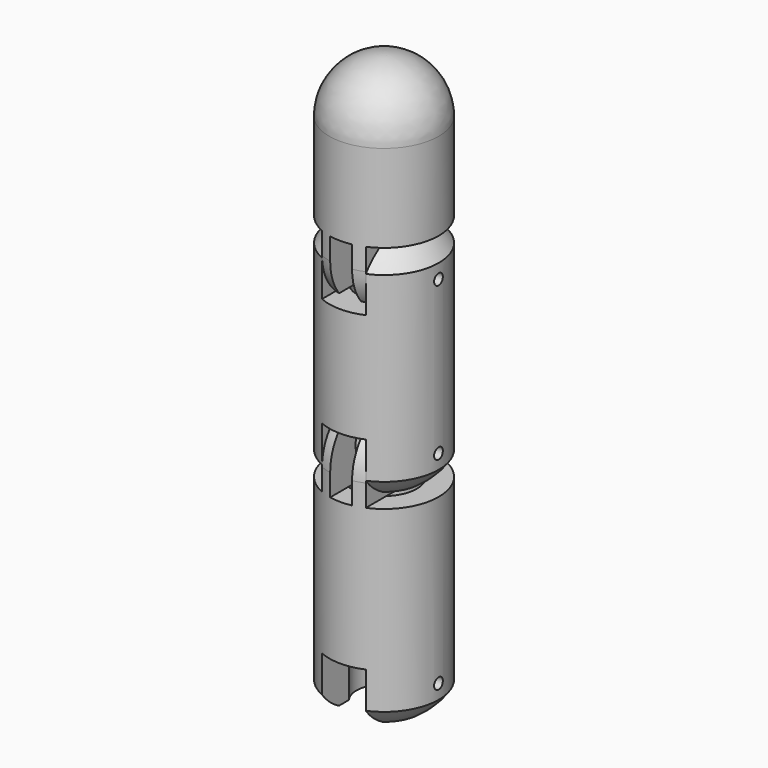
from build123d import *

# Parameters (mm, degrees)
CYLINDER095_R                = 3
CYLINDER095_DEPTH            = 10
CYLINDER090_R                = 5
CYLINDER090_DEPTH            = 4
CYLINDER096_R                = 0.5
CYLINDER096_DEPTH            = 10
CYLINDER094_R                = 2.5
CYLINDER094_DEPTH            = 10
BOX033_W                     = 4
BOX033_H                     = 10
BOX033_DEPTH                 = 5
CYLINDER093_R                = 5
CYLINDER093_DEPTH            = 10
CYLINDER097_R                = 0.5
CYLINDER097_DEPTH            = 10
CYLINDER099_R                = 2
CYLINDER099_DEPTH            = 4
CYLINDER088_R                = 3
CYLINDER088_DEPTH            = 10
BOX034_W                     = 10
BOX034_H                     = 10
BOX034_DEPTH                 = 10
BOX031_W                     = 2
BOX031_H                     = 10
BOX031_DEPTH                 = 10
BOX032_W                     = 10
BOX032_H                     = 10
BOX032_DEPTH                 = 10
CYLINDER101_R                = 5
CYLINDER101_DEPTH            = 10
CYLINDER091_R                = 5
CYLINDER091_DEPTH            = 10
CYLINDER104_R                = 0.5
CYLINDER104_DEPTH            = 10
CYLINDER098_R                = 2
CYLINDER098_DEPTH            = 4
CYLINDER105_R                = 3
CYLINDER105_DEPTH            = 10
BOX036_W                     = 10
BOX036_H                     = 10
BOX036_DEPTH                 = 10
BOX037_W                     = 2
BOX037_H                     = 10
BOX037_DEPTH                 = 10
BOX035_W                     = 10
BOX035_H                     = 10
BOX035_DEPTH                 = 10
CYLINDER103_R                = 5
CYLINDER103_DEPTH            = 10
CYLINDER102_R                = 5
CYLINDER102_DEPTH            = 10
CUT089_PLACEMENT_ANGLE       = 180
CYLINDER109_R                = 3
CYLINDER109_DEPTH            = 10
CYLINDER089_R                = 5
CYLINDER089_DEPTH            = 4
CYLINDER107_R                = 0.5
CYLINDER107_DEPTH            = 10
CYLINDER100_R                = 2.5
CYLINDER100_DEPTH            = 10
BOX038_W                     = 4
BOX038_H                     = 10
BOX038_DEPTH                 = 5
CYLINDER108_R                = 5
CYLINDER108_DEPTH            = 10
FUSION005045_PLACEMENT_ANGLE = 180
CYLINDER111_R                = 3
CYLINDER111_DEPTH            = 10
CYLINDER110_R                = 5
CYLINDER110_DEPTH            = 4
CYLINDER106_R                = 0.5
CYLINDER106_DEPTH            = 10
CYLINDER112_R                = 2.5
CYLINDER112_DEPTH            = 10
BOX039_W                     = 4
BOX039_H                     = 10
BOX039_DEPTH                 = 5
CYLINDER092_R                = 5
CYLINDER092_DEPTH            = 10


with BuildPart() as cylinder095:
    # Cylinder095 → Cylinder095 (new body)
    with BuildSketch(Plane(origin=(18, 0, -6), x_dir=(1, 0, 0), z_dir=(0, 0, 1))):
        Circle(CYLINDER095_R)
    extrude(amount=CYLINDER095_DEPTH)


with BuildPart() as cut084:
    # Cylinder090 → Cylinder090 (new body)
    with BuildSketch(Plane(origin=(18, 0, -4), x_dir=(1, 0, 0), z_dir=(0, 0, 1))):
        Circle(CYLINDER090_R)
    extrude(amount=CYLINDER090_DEPTH)

    # Cut084: cut Cylinder095
    add(cylinder095.part, mode=Mode.SUBTRACT)


with BuildPart() as cut084_1:
    # Cut084 placement: moved
    add(cut084.part.moved(Location((-18, 0, 0))))


with BuildPart() as sphere023:
    # Sphere023 → Sphere023 (revolve)
    with BuildSketch(Plane(origin=(0, 0, -5), x_dir=(1, 0, 0), z_dir=(0, -1, 0))):
        with BuildLine():
            ThreePointArc((0, -6), (6, 0), (0, 6))
            Line((0, 6), (0, -6))
        make_face()
    revolve(axis=Axis((0, 0, -5), (0, 0, 1)))


with BuildPart() as cylinder096:
    # Cylinder096 → Cylinder096 (new body)
    with BuildSketch(Plane(origin=(5, 0, -7), x_dir=(0, 0, 1), z_dir=(-1, 0, 0))):
        Circle(CYLINDER096_R)
    extrude(amount=CYLINDER096_DEPTH)


with BuildPart() as cylinder094:
    # Cylinder094 → Cylinder094 (new body)
    with BuildSketch(Plane.XY.offset(-10)):
        Circle(CYLINDER094_R)
    extrude(amount=CYLINDER094_DEPTH)


with BuildPart() as cube033:
    # Box033 → Box033 (new body)
    with BuildSketch(Plane(origin=(-2, -5, -10), x_dir=(1, 0, 0), z_dir=(0, 0, 1))):
        with Locations((2, 5)):
            Rectangle(BOX033_W, BOX033_H)
    extrude(amount=BOX033_DEPTH)


with BuildPart() as fusion005038:
    # Cylinder093 → Cylinder093 (new body)
    with BuildSketch(Plane.XY.offset(-10)):
        Circle(CYLINDER093_R)
    extrude(amount=CYLINDER093_DEPTH)

    # Cut083: cut Cube033
    add(cube033.part, mode=Mode.SUBTRACT)

    # Cut082: cut Cylinder094
    add(cylinder094.part, mode=Mode.SUBTRACT)

    # Cut076: cut Cylinder096
    add(cylinder096.part, mode=Mode.SUBTRACT)

    # Common019: intersect Sphere023
    add(sphere023.part, mode=Mode.INTERSECT)

    # Fusion005040: union Cut084
    add(cut084_1.part)


with BuildPart() as fusion005038_1:
    # Fusion005038 placement: moved
    add(fusion005038.part.moved(Location((0, 0, -18.5))))


with BuildPart() as cylinder097:
    # Cylinder097 → Cylinder097 (new body)
    with BuildSketch(Plane(origin=(-5, 0, -7), x_dir=(0, 0, -1), z_dir=(1, 0, 0))):
        Circle(CYLINDER097_R)
    extrude(amount=CYLINDER097_DEPTH)


with BuildPart() as cylinder099:
    # Cylinder099 → Cylinder099 (new body)
    with BuildSketch(Plane(origin=(-2, -50, 1), x_dir=(0, 0, -1), z_dir=(1, 0, 0))):
        Circle(CYLINDER099_R)
    extrude(amount=CYLINDER099_DEPTH)


with BuildPart() as cylinder088:
    # Cylinder088 → Cylinder088 (new body)
    with BuildSketch(Plane(origin=(0, -50, -12), x_dir=(1, 0, 0), z_dir=(0, 0, 1))):
        Circle(CYLINDER088_R)
    extrude(amount=CYLINDER088_DEPTH)


with BuildPart() as cube034:
    # Box034 → Box034 (new body)
    with BuildSketch(Plane(origin=(-12, -55, -2), x_dir=(1, 0, 0), z_dir=(0, 0, 1))):
        with Locations((5, 5)):
            Rectangle(BOX034_W, BOX034_H)
    extrude(amount=BOX034_DEPTH)


with BuildPart() as cube031:
    # Box031 → Box031 (new body)
    with BuildSketch(Plane(origin=(-1, -55, -2), x_dir=(1, 0, 0), z_dir=(0, 0, 1))):
        with Locations((1, 5)):
            Rectangle(BOX031_W, BOX031_H)
    extrude(amount=BOX031_DEPTH)


with BuildPart() as cube032:
    # Box032 → Box032 (new body)
    with BuildSketch(Plane(origin=(2, -55, -2), x_dir=(1, 0, 0), z_dir=(0, 0, 1))):
        with Locations((5, 5)):
            Rectangle(BOX032_W, BOX032_H)
    extrude(amount=BOX032_DEPTH)


with BuildPart() as cylinder101:
    # Cylinder101 → Cylinder101 (new body)
    with BuildSketch(Plane(origin=(0, -50, -10), x_dir=(1, 0, 0), z_dir=(0, 0, 1))):
        Circle(CYLINDER101_R)
    extrude(amount=CYLINDER101_DEPTH)


with BuildPart() as sphere024:
    # Sphere024 → Sphere024 (revolve)
    with BuildSketch(Plane.XZ.offset(50)):
        with BuildLine():
            ThreePointArc((5, 0), (3.535534, 3.535534), (0, 5))
            Line((0, 5), (0, 0))
            Line((0, 0), (5, 0))
        make_face()
    revolve(axis=Axis((0, -50, 0), (0, 0, 1)))


with BuildPart() as cut080:
    # Cylinder091 → Cylinder091 (new body)
    with BuildSketch(Plane(origin=(0, -50, -7), x_dir=(1, 0, 0), z_dir=(0, 0, 1))):
        Circle(CYLINDER091_R)
    extrude(amount=CYLINDER091_DEPTH)

    # Common017: intersect Sphere024
    add(sphere024.part, mode=Mode.INTERSECT)

    # Fusion005041: union Cylinder101
    add(cylinder101.part)

    # Cut081: cut Cube032
    add(cube032.part, mode=Mode.SUBTRACT)

    # Cut079: cut Cube031
    add(cube031.part, mode=Mode.SUBTRACT)

    # Cut078: cut Cube034
    add(cube034.part, mode=Mode.SUBTRACT)

    # Cut086: cut Cylinder088
    add(cylinder088.part, mode=Mode.SUBTRACT)

    # Fusion005037: union Cylinder099
    add(cylinder099.part)


with BuildPart() as cut080_1:
    # Fusion005039 placement: moved
    add(cut080.part.moved(Location((0, 50, -8.5))))

    # Cut080: cut Cylinder097
    add(cylinder097.part, mode=Mode.SUBTRACT)


with BuildPart() as cut080_2:
    # Cut080 placement: moved
    add(cut080_1.part.moved(Location((0, 0, -18.5))))


with BuildPart() as cylinder104:
    # Cylinder104 → Cylinder104 (new body)
    with BuildSketch(Plane(origin=(-5, 0, -7), x_dir=(0, 0, -1), z_dir=(1, 0, 0))):
        Circle(CYLINDER104_R)
    extrude(amount=CYLINDER104_DEPTH)


with BuildPart() as cylinder098:
    # Cylinder098 → Cylinder098 (new body)
    with BuildSketch(Plane(origin=(-2, -50, 1), x_dir=(0, 0, -1), z_dir=(1, 0, 0))):
        Circle(CYLINDER098_R)
    extrude(amount=CYLINDER098_DEPTH)


with BuildPart() as cylinder105:
    # Cylinder105 → Cylinder105 (new body)
    with BuildSketch(Plane(origin=(0, -50, -12), x_dir=(1, 0, 0), z_dir=(0, 0, 1))):
        Circle(CYLINDER105_R)
    extrude(amount=CYLINDER105_DEPTH)


with BuildPart() as cube036:
    # Box036 → Box036 (new body)
    with BuildSketch(Plane(origin=(-12, -55, -2), x_dir=(1, 0, 0), z_dir=(0, 0, 1))):
        with Locations((5, 5)):
            Rectangle(BOX036_W, BOX036_H)
    extrude(amount=BOX036_DEPTH)


with BuildPart() as cube037:
    # Box037 → Box037 (new body)
    with BuildSketch(Plane(origin=(-1, -55, -2), x_dir=(1, 0, 0), z_dir=(0, 0, 1))):
        with Locations((1, 5)):
            Rectangle(BOX037_W, BOX037_H)
    extrude(amount=BOX037_DEPTH)


with BuildPart() as cube035:
    # Box035 → Box035 (new body)
    with BuildSketch(Plane(origin=(2, -55, -2), x_dir=(1, 0, 0), z_dir=(0, 0, 1))):
        with Locations((5, 5)):
            Rectangle(BOX035_W, BOX035_H)
    extrude(amount=BOX035_DEPTH)


with BuildPart() as cylinder103:
    # Cylinder103 → Cylinder103 (new body)
    with BuildSketch(Plane(origin=(0, -50, -10), x_dir=(1, 0, 0), z_dir=(0, 0, 1))):
        Circle(CYLINDER103_R)
    extrude(amount=CYLINDER103_DEPTH)


with BuildPart() as sphere021:
    # Sphere021 → Sphere021 (revolve)
    with BuildSketch(Plane.XZ.offset(50)):
        with BuildLine():
            ThreePointArc((5, 0), (3.535534, 3.535534), (0, 5))
            Line((0, 5), (0, 0))
            Line((0, 0), (5, 0))
        make_face()
    revolve(axis=Axis((0, -50, 0), (0, 0, 1)))


with BuildPart() as cut089:
    # Cylinder102 → Cylinder102 (new body)
    with BuildSketch(Plane(origin=(0, -50, -7), x_dir=(1, 0, 0), z_dir=(0, 0, 1))):
        Circle(CYLINDER102_R)
    extrude(amount=CYLINDER102_DEPTH)

    # Common020: intersect Sphere021
    add(sphere021.part, mode=Mode.INTERSECT)

    # Fusion005042: union Cylinder103
    add(cylinder103.part)

    # Cut088: cut Cube035
    add(cube035.part, mode=Mode.SUBTRACT)

    # Cut090: cut Cube037
    add(cube037.part, mode=Mode.SUBTRACT)

    # Cut091: cut Cube036
    add(cube036.part, mode=Mode.SUBTRACT)

    # Cut087: cut Cylinder105
    add(cylinder105.part, mode=Mode.SUBTRACT)

    # Fusion005043: union Cylinder098
    add(cylinder098.part)


with BuildPart() as cut089_1:
    # Fusion005036 placement: moved
    add(cut089.part.moved(Location((0, 50, -8.5))))

    # Cut089: cut Cylinder104
    add(cylinder104.part, mode=Mode.SUBTRACT)


with BuildPart() as cut089_2:
    # Cut089 placement: moved
    add(cut089_1.part.moved(Location((0, 0, -18.5))).rotate(Axis((0, 0, -18.5), (1, 0, 0)), CUT089_PLACEMENT_ANGLE))


with BuildPart() as cylinder109:
    # Cylinder109 → Cylinder109 (new body)
    with BuildSketch(Plane(origin=(18, 0, -6), x_dir=(1, 0, 0), z_dir=(0, 0, 1))):
        Circle(CYLINDER109_R)
    extrude(amount=CYLINDER109_DEPTH)


with BuildPart() as cut096:
    # Cylinder089 → Cylinder089 (new body)
    with BuildSketch(Plane(origin=(18, 0, -4), x_dir=(1, 0, 0), z_dir=(0, 0, 1))):
        Circle(CYLINDER089_R)
    extrude(amount=CYLINDER089_DEPTH)

    # Cut096: cut Cylinder109
    add(cylinder109.part, mode=Mode.SUBTRACT)


with BuildPart() as cut096_1:
    # Cut096 placement: moved
    add(cut096.part.moved(Location((-18, 0, 0))))


with BuildPart() as sphere022:
    # Sphere022 → Sphere022 (revolve)
    with BuildSketch(Plane(origin=(0, 0, -5), x_dir=(1, 0, 0), z_dir=(0, -1, 0))):
        with BuildLine():
            ThreePointArc((0, -6), (6, 0), (0, 6))
            Line((0, 6), (0, -6))
        make_face()
    revolve(axis=Axis((0, 0, -5), (0, 0, 1)))


with BuildPart() as cylinder107:
    # Cylinder107 → Cylinder107 (new body)
    with BuildSketch(Plane(origin=(5, 0, -7), x_dir=(0, 0, 1), z_dir=(-1, 0, 0))):
        Circle(CYLINDER107_R)
    extrude(amount=CYLINDER107_DEPTH)


with BuildPart() as cylinder100:
    # Cylinder100 → Cylinder100 (new body)
    with BuildSketch(Plane.XY.offset(-10)):
        Circle(CYLINDER100_R)
    extrude(amount=CYLINDER100_DEPTH)


with BuildPart() as cube038:
    # Box038 → Box038 (new body)
    with BuildSketch(Plane(origin=(-2, -5, -10), x_dir=(1, 0, 0), z_dir=(0, 0, 1))):
        with Locations((2, 5)):
            Rectangle(BOX038_W, BOX038_H)
    extrude(amount=BOX038_DEPTH)


with BuildPart() as fusion005045:
    # Cylinder108 → Cylinder108 (new body)
    with BuildSketch(Plane.XY.offset(-10)):
        Circle(CYLINDER108_R)
    extrude(amount=CYLINDER108_DEPTH)

    # Cut092: cut Cube038
    add(cube038.part, mode=Mode.SUBTRACT)

    # Cut095: cut Cylinder100
    add(cylinder100.part, mode=Mode.SUBTRACT)

    # Cut085: cut Cylinder107
    add(cylinder107.part, mode=Mode.SUBTRACT)

    # Common018: intersect Sphere022
    add(sphere022.part, mode=Mode.INTERSECT)

    # Fusion005044: union Cut096
    add(cut096_1.part)


with BuildPart() as fusion005045_1:
    # Fusion005045 placement: moved
    add(fusion005045.part.moved(Location((0, 0, -18.5))).rotate(Axis((0, 0, -18.5), (1, 0, 0)), FUSION005045_PLACEMENT_ANGLE))


with BuildPart() as cylinder111:
    # Cylinder111 → Cylinder111 (new body)
    with BuildSketch(Plane(origin=(18, 0, -6), x_dir=(1, 0, 0), z_dir=(0, 0, 1))):
        Circle(CYLINDER111_R)
    extrude(amount=CYLINDER111_DEPTH)


with BuildPart() as cut097:
    # Cylinder110 → Cylinder110 (new body)
    with BuildSketch(Plane(origin=(18, 0, -4), x_dir=(1, 0, 0), z_dir=(0, 0, 1))):
        Circle(CYLINDER110_R)
    extrude(amount=CYLINDER110_DEPTH)

    # Cut097: cut Cylinder111
    add(cylinder111.part, mode=Mode.SUBTRACT)


with BuildPart() as cut097_1:
    # Cut097 placement: moved
    add(cut097.part.moved(Location((-18, 0, 0))))


with BuildPart() as sphere026:
    # Sphere026 → Sphere026 (revolve)
    with BuildSketch(Plane(origin=(0, 0, -5), x_dir=(1, 0, 0), z_dir=(0, -1, 0))):
        with BuildLine():
            ThreePointArc((0, -6), (6, 0), (0, 6))
            Line((0, 6), (0, -6))
        make_face()
    revolve(axis=Axis((0, 0, -5), (0, 0, 1)))


with BuildPart() as cylinder106:
    # Cylinder106 → Cylinder106 (new body)
    with BuildSketch(Plane(origin=(5, 0, -7), x_dir=(0, 0, 1), z_dir=(-1, 0, 0))):
        Circle(CYLINDER106_R)
    extrude(amount=CYLINDER106_DEPTH)


with BuildPart() as cylinder112:
    # Cylinder112 → Cylinder112 (new body)
    with BuildSketch(Plane.XY.offset(-10)):
        Circle(CYLINDER112_R)
    extrude(amount=CYLINDER112_DEPTH)


with BuildPart() as cube039:
    # Box039 → Box039 (new body)
    with BuildSketch(Plane(origin=(-2, -5, -10), x_dir=(1, 0, 0), z_dir=(0, 0, 1))):
        with Locations((2, 5)):
            Rectangle(BOX039_W, BOX039_H)
    extrude(amount=BOX039_DEPTH)


with BuildPart() as fusion005047:
    # Cylinder092 → Cylinder092 (new body)
    with BuildSketch(Plane.XY.offset(-10)):
        Circle(CYLINDER092_R)
    extrude(amount=CYLINDER092_DEPTH)

    # Cut077: cut Cube039
    add(cube039.part, mode=Mode.SUBTRACT)

    # Cut093: cut Cylinder112
    add(cylinder112.part, mode=Mode.SUBTRACT)

    # Cut094: cut Cylinder106
    add(cylinder106.part, mode=Mode.SUBTRACT)

    # Common021: intersect Sphere026
    add(sphere026.part, mode=Mode.INTERSECT)

    # Fusion005046: union Cut097
    add(cut097_1.part)


with BuildPart() as fusion005047_1:
    # Fusion005047 placement: moved
    add(fusion005047.part.moved(Location((0, 0, -37))))


with BuildPart() as connect002001:
    # Sphere025 → Sphere025 (revolve)
    with BuildSketch(Plane.XZ):
        with BuildLine():
            ThreePointArc((5, 0), (3.535534, 3.535534), (0, 5))
            Line((0, 5), (0, 0))
            Line((0, 0), (5, 0))
        make_face()
    revolve(axis=Axis((0, 0, 0), (0, 0, 1)))

    # Connect002: union Fusion005038, Cut080, Cut089, Fusion005045, Fusion005047
    add(fusion005038_1.part)
    add(cut080_2.part)
    add(cut089_2.part)
    add(fusion005045_1.part)
    add(fusion005047_1.part)


with BuildPart() as connect002001_1:
    # Connect002 placement: moved
    add(connect002001.part.moved(Location((-52, 0, 0))))


solid = connect002001_1.part
